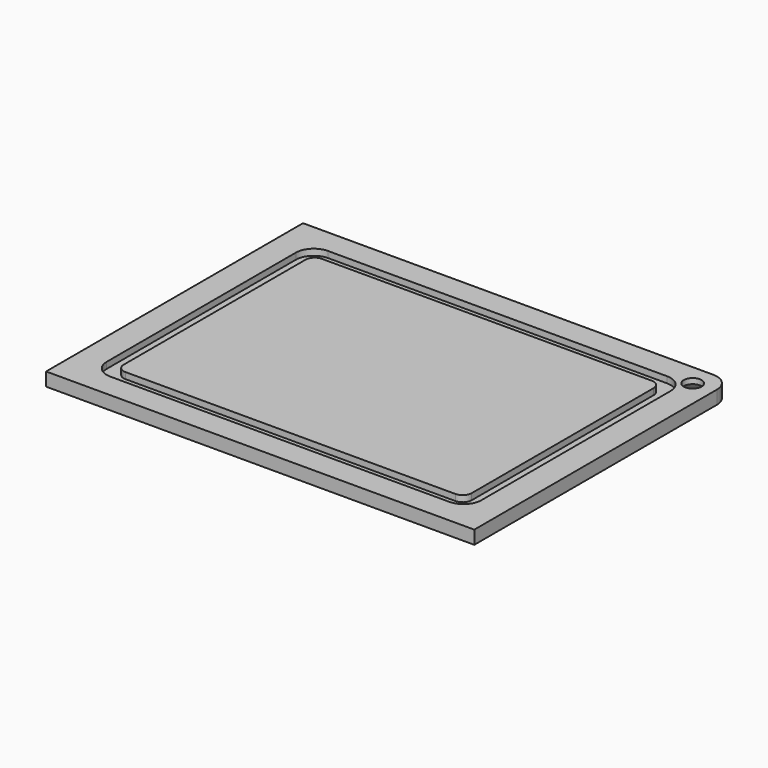
from build123d import *

# Parameters (mm, degrees)
F1_W      = 48
F1_H      = 36
F2_DEPTH  = 1.5
F4_W      = 42
F4_H      = 30.5
F4_W_2    = 39
F4_H_2    = 27.5
F6_DEPTH  = 0.7
F7_R      = 2
F8_R      = 1
F9_DEPTH  = 25
F10_SIZE2 = 0.9
F10_SIZE  = 0.9
F11_R     = 2


with BuildPart() as f2:
    # F1 (on Top) → F2 (new body)
    with BuildSketch(Plane.XY):
        with Locations((19, 13.25)):
            Rectangle(F1_W, F1_H)
    extrude(amount=F2_DEPTH)

    # F4 (on face) → F6 (cut)
    with BuildSketch(Plane.XY.offset(1.5)):
        with Locations((19, 13.25)):
            Rectangle(F4_W, F4_H)
        with Locations((19, 13.25)):
            Rectangle(F4_W_2, F4_H_2, mode=Mode.SUBTRACT)
    extrude(amount=-F6_DEPTH, mode=Mode.SUBTRACT)

    # F7
    f7_edges = [f2.edges().sort_by_distance(p)[0] for p in [
        (40, 28.5, 1.15),
        (40, -2, 1.15),
        (-2, 28.5, 1.15),
        (-2, -2, 1.15),
    ]]
    fillet(f7_edges, radius=F7_R)

    # F8
    f8_edges = [f2.edges().sort_by_distance(p)[0] for p in [
        (38.5, 27, 1.15),
        (38.5, -0.5, 1.15),
        (-0.5, -0.5, 1.15),
        (-0.5, 27, 1.15),
    ]]
    fillet(f8_edges, radius=F8_R)

    # F5 (on face) → F9 (cut)
    with BuildSketch(Plane.XY.offset(1.5)):
        with BuildLine():
            Line((40, 28.5), (39.6632503002, 28.5))
            ThreePointArc((39.6632503002, 28.5), (39.7993596875, 28.2508547004), (40, 28.05))
            Line((40, 28.05), (40, 28.5))
        make_face()
        with BuildLine():
            ThreePointArc((41.6, 28.85), (40.4221653855, 29.8340603893), (39.6632503002, 28.5))
            Line((39.6632503002, 28.5), (40, 28.5))
            Line((40, 28.5), (40, 28.05))
            ThreePointArc((40, 28.05), (41.0472135955, 27.955572809), (41.6, 28.85))
        make_face()
    extrude(amount=-F9_DEPTH, mode=Mode.SUBTRACT)

    # F10
    f10_edges = [f2.edges().sort_by_distance(p)[0] for p in [
        (41.2, 29.65, 0),
    ]]
    chamfer(f10_edges, length=F10_SIZE, length2=F10_SIZE2)

    # F11
    f11_edges = [f2.edges().sort_by_distance(p)[0] for p in [
        (43, 31.25, 0.75),
    ]]
    fillet(f11_edges, radius=F11_R)


solid = f2.part
